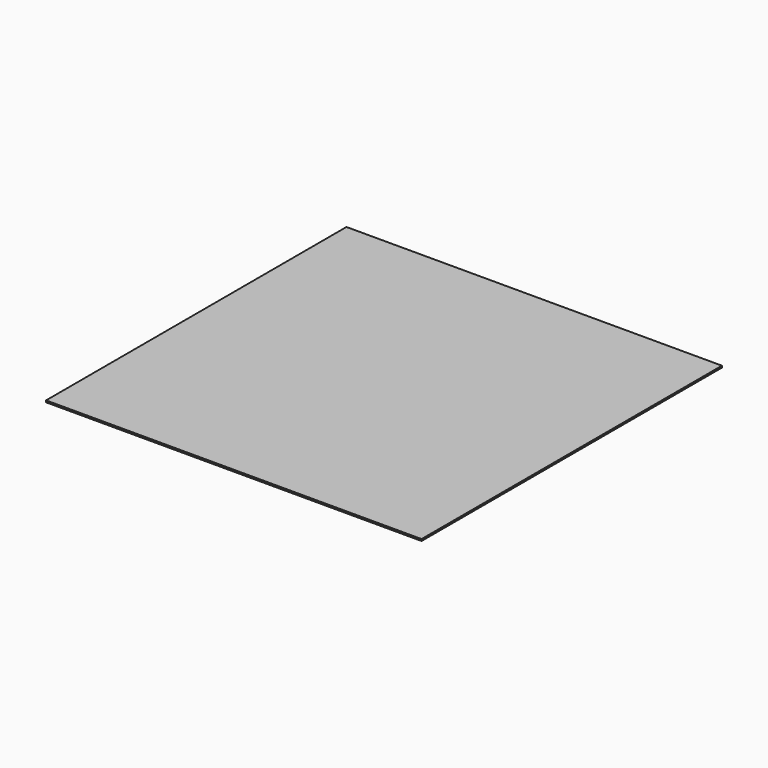
from build123d import *

# Parameters (mm, degrees)
SKETCH_W  = 214
SKETCH_H  = 214
PAD_DEPTH = 1


with BuildPart() as part:
    # Sketch → Pad (new body)
    with BuildSketch(Plane.XY):
        Rectangle(SKETCH_W, SKETCH_H)
    extrude(amount=PAD_DEPTH)


solid = part.part
